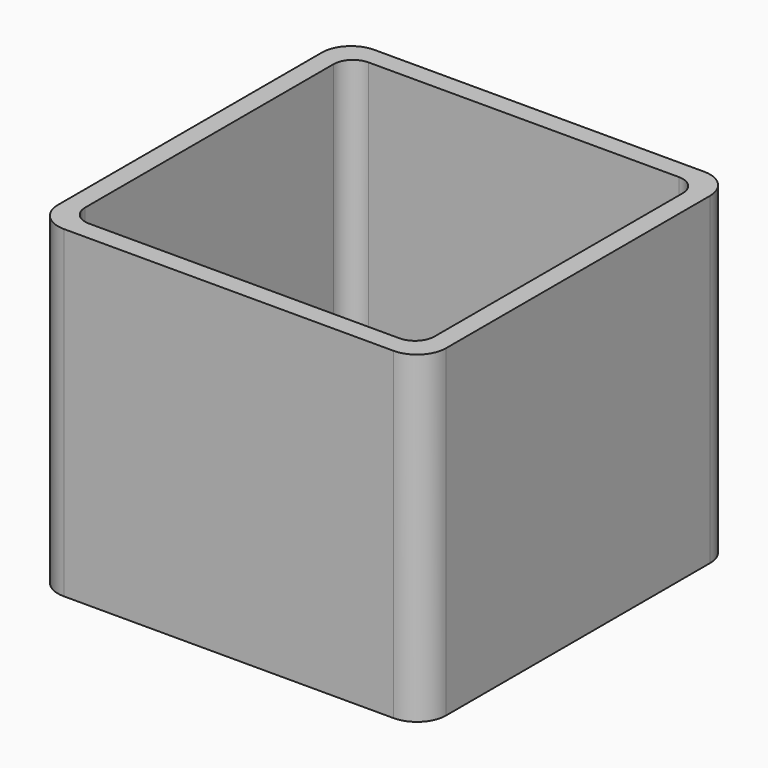
from build123d import *

# Parameters (mm, degrees)
EXTRUDE_DEPTH = 50


with BuildPart() as part:
    # Sketch → Extrude (new body)
    with BuildSketch(Plane.XY):
        with BuildLine():
            Line((-25.5, 30), (25.5, 30))
            ThreePointArc((30, 25.5), (28.681981, 28.681981), (25.5, 30))
            Line((30, 25.5), (30, -25.5))
            ThreePointArc((25.5, -30), (28.681981, -28.681981), (30, -25.5))
            Line((25.5, -30), (-25.5, -30))
            ThreePointArc((-30, -25.5), (-28.681981, -28.681981), (-25.5, -30))
            Line((-30, -25.5), (-30, 25.5))
            ThreePointArc((-25.5, 30), (-28.681981, 28.681981), (-30, 25.5))
        make_face()
        with BuildLine():
            Line((-24, 27), (24, 27))
            ThreePointArc((27, 24), (26.12132, 26.12132), (24, 27))
            Line((27, 24), (27, -24))
            ThreePointArc((24, -27), (26.12132, -26.12132), (27, -24))
            Line((24, -27), (-24, -27))
            ThreePointArc((-27, -24), (-26.12132, -26.12132), (-24, -27))
            Line((-27, -24), (-27, 24))
            ThreePointArc((-24, 27), (-26.12132, 26.12132), (-27, 24))
        make_face(mode=Mode.SUBTRACT)
    extrude(amount=EXTRUDE_DEPTH)


solid = part.part
